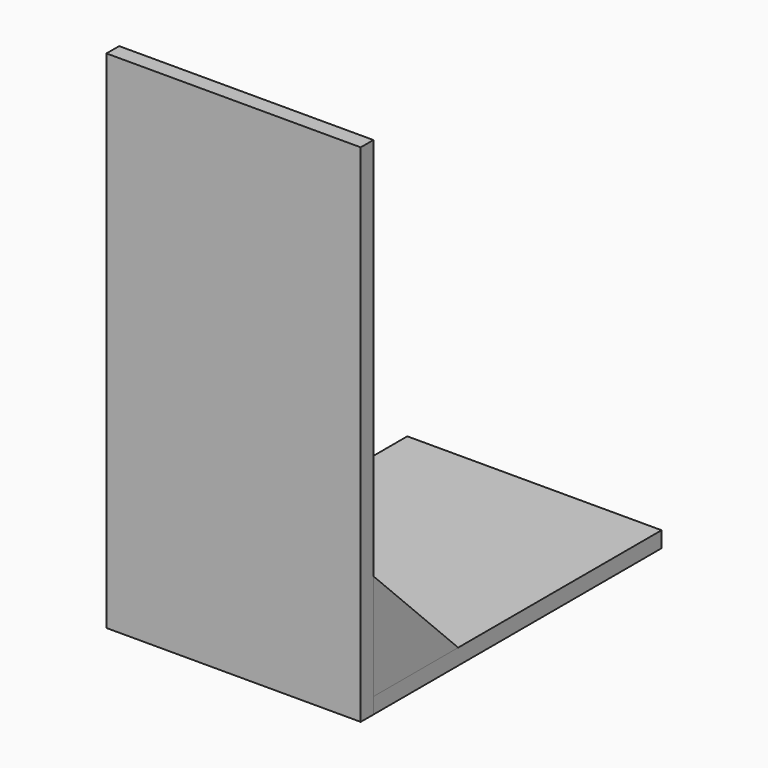
from build123d import *

# Parameters (mm, degrees)
F0_W     = 304.8
F0_H     = 431.8
F1_DEPTH = 19.05
F2_W     = 304.8
F2_H     = 606.425
F3_DEPTH = 19.05
F5_DEPTH = 19.05


with BuildPart() as f1:
    # F0 (on Top) → F1 (new body)
    with BuildSketch(Plane.XY):
        with Locations((0, 215.9)):
            Rectangle(F0_W, F0_H)
    extrude(amount=F1_DEPTH)


with BuildPart() as f3:
    # F2 (on Front) → F3 (new body)
    with BuildSketch(Plane.XZ):
        with Locations((0, 303.2125)):
            Rectangle(F2_W, F2_H)
    extrude(amount=F3_DEPTH)


with BuildPart() as f5:
    # F4 (on face) → F5 (new body)
    with BuildSketch(Plane.YZ.offset(152.4)):
        Polygon((0, 146.05), (0, 19.05), (127, 19.05), align=None)
    extrude(amount=-F5_DEPTH)


with BuildPart() as f6_1:
    # F6: copy of F5
    add(f5.part.moved(Location((-285.75, 0, 0))))


solid = Compound([f1.part, f3.part, f5.part, f6_1.part])
